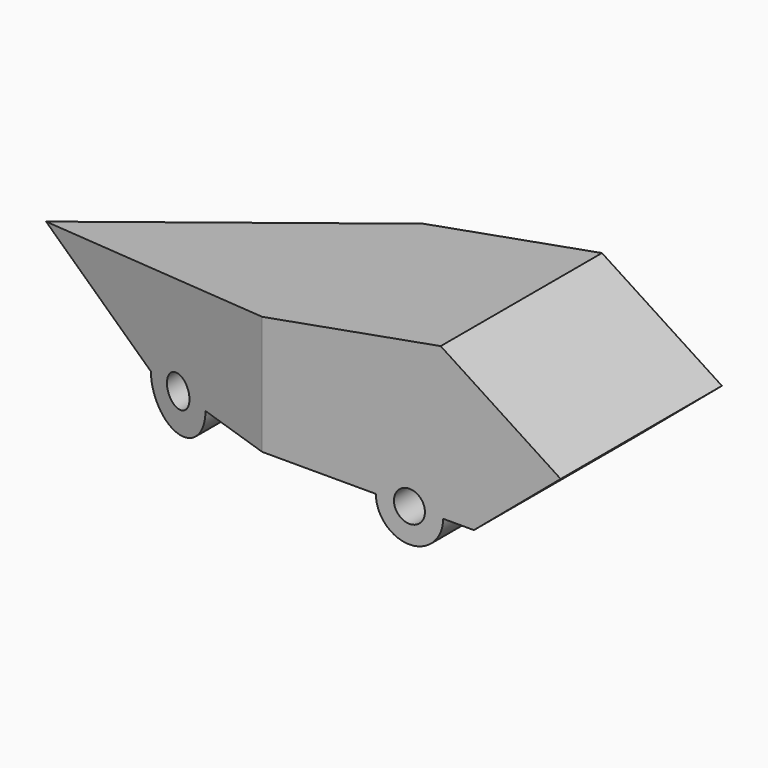
from build123d import *

# Parameters (mm, degrees)
F1_DEPTH = 25.4
F2_DEPTH = 12.7
F4_DEPTH = 101.6


with BuildPart() as f1:
    # F0 (on Front) → F1 (new body, symmetric)
    with BuildSketch(Plane.XZ):
        with BuildLine():
            Line((44.9795118183, 19.6340414269), (-74.7879317753, -2.009495511))
            Line((-74.7879317753, -2.009495511), (-42.1710492869, -16.8047615714))
            ThreePointArc((-42.1710492869, -16.8047615714), (-28.2356794376, -5.2842052737), (-15.8599317753, -18.4659585731))
            Line((-15.8599317753, -18.4659585731), (23.9040682247, -18.4659585731))
            ThreePointArc((23.9040682247, -18.4659585731), (37.1120682247, -5.2579585731), (50.3200682247, -18.4659585731))
            Line((50.3200682247, -18.4659585731), (53.351612715, -18.4659585731))
            Line((53.351612715, -18.4659585731), (75.2120682247, 0))
            Line((75.2120682247, 0), (44.9795118183, 19.6340414269))
        make_face()
        with BuildLine():
            ThreePointArc((50.3200682247, -18.4659585731), (37.1120682247, -5.2579585731), (23.9040682247, -18.4659585731))
            Line((23.9040682247, -18.4659585731), (28.6366716027, -18.4659585731))
            Line((28.6366716027, -18.4659585731), (33.2120682247, -18.4659585731))
            ThreePointArc((33.2120682247, -18.4659585731), (37.1120682247, -14.5659585731), (41.0120682247, -18.4659585731))
            Line((41.0120682247, -18.4659585731), (45.5874648466, -18.4659585731))
            Line((45.5874648466, -18.4659585731), (50.3200682247, -18.4659585731))
        make_face()
        with BuildLine():
            ThreePointArc((-15.8599317753, -18.4659585731), (-28.2356794376, -5.2842052737), (-42.1710492869, -16.8047615714))
            Line((-42.1710492869, -16.8047615714), (-38.5088598291, -18.4659585731))
            Line((-38.5088598291, -18.4659585731), (-32.9679317753, -18.4659585731))
            ThreePointArc((-32.9679317753, -18.4659585731), (-29.0679317753, -14.5659585731), (-25.1679317753, -18.4659585731))
            Line((-25.1679317753, -18.4659585731), (-19.6270037216, -18.4659585731))
            Line((-19.6270037216, -18.4659585731), (-15.8599317753, -18.4659585731))
        make_face()
        with BuildLine():
            Line((-32.9679317753, -18.4659585731), (-38.5088598291, -18.4659585731))
            ThreePointArc((-38.5088598291, -18.4659585731), (-29.0679317753, -27.9068866268), (-19.6270037216, -18.4659585731))
            Line((-19.6270037216, -18.4659585731), (-25.1679317753, -18.4659585731))
            ThreePointArc((-25.1679317753, -18.4659585731), (-29.0679317753, -22.3659585731), (-32.9679317753, -18.4659585731))
        make_face()
        with BuildLine():
            Line((33.2120682247, -18.4659585731), (28.6366716027, -18.4659585731))
            ThreePointArc((28.6366716027, -18.4659585731), (37.1120682247, -26.941355195), (45.5874648466, -18.4659585731))
            Line((45.5874648466, -18.4659585731), (41.0120682247, -18.4659585731))
            ThreePointArc((41.0120682247, -18.4659585731), (37.1120682247, -22.3659585731), (33.2120682247, -18.4659585731))
        make_face()
    extrude(amount=F1_DEPTH, both=True)

    # F0 (on Front) → F2 (join, symmetric)
    with BuildSketch(Plane.XZ):
        with BuildLine():
            ThreePointArc((-15.8599317753, -18.4659585731), (-28.2356794376, -5.2842052737), (-42.1710492869, -16.8047615714))
            Line((-42.1710492869, -16.8047615714), (-38.5088598291, -18.4659585731))
            Line((-38.5088598291, -18.4659585731), (-32.9679317753, -18.4659585731))
            ThreePointArc((-32.9679317753, -18.4659585731), (-29.0679317753, -14.5659585731), (-25.1679317753, -18.4659585731))
            Line((-25.1679317753, -18.4659585731), (-19.6270037216, -18.4659585731))
            Line((-19.6270037216, -18.4659585731), (-15.8599317753, -18.4659585731))
        make_face()
        with BuildLine():
            ThreePointArc((50.3200682247, -18.4659585731), (37.1120682247, -5.2579585731), (23.9040682247, -18.4659585731))
            Line((23.9040682247, -18.4659585731), (28.6366716027, -18.4659585731))
            Line((28.6366716027, -18.4659585731), (33.2120682247, -18.4659585731))
            ThreePointArc((33.2120682247, -18.4659585731), (37.1120682247, -14.5659585731), (41.0120682247, -18.4659585731))
            Line((41.0120682247, -18.4659585731), (45.5874648466, -18.4659585731))
            Line((45.5874648466, -18.4659585731), (50.3200682247, -18.4659585731))
        make_face()
    extrude(amount=F2_DEPTH, both=True)

    # F3 (on Top) → F4 (cut, symmetric)
    with BuildSketch(Plane.XY):
        Polygon((0, -25.4), (-74.7879317753, 0), (0, 25.4), (0, 56.2246665359), (-99.1614311934, 56.2246665359), (-99.1614311934, -55.5053986609), (0, -55.5053986609), align=None)
    extrude(amount=F4_DEPTH, both=True, mode=Mode.SUBTRACT)


solid = f1.part
